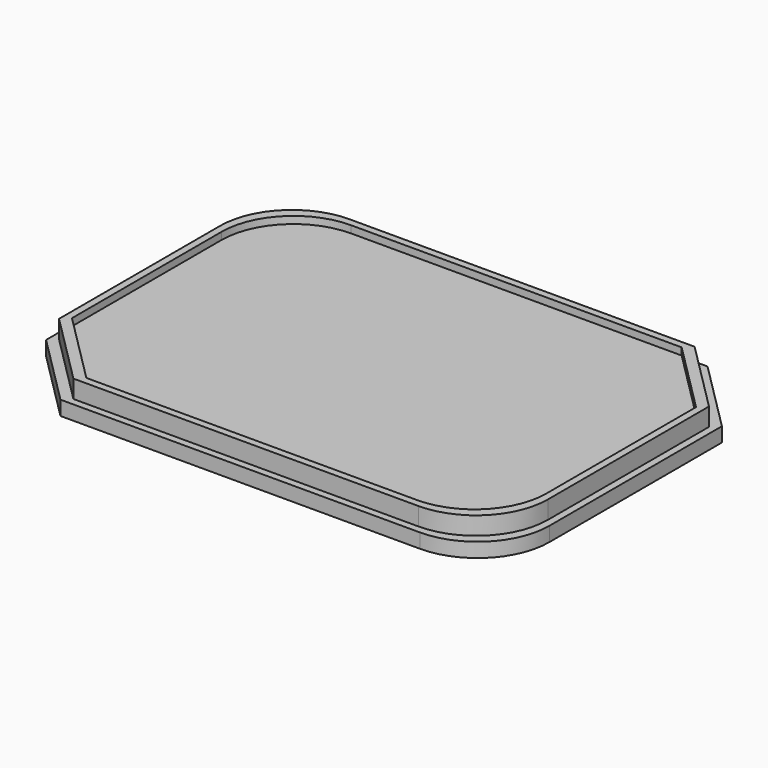
from build123d import *

# Parameters (mm, degrees)
F0_W     = 70
F0_H     = 50
F1_DEPTH = 2
F2_W     = 68
F2_H     = 48
F3_DEPTH = 2.5
F4_W     = 66
F4_H     = 46
F5_DEPTH = 1
F6_SIZE  = 10
F7_R     = 10


with BuildPart() as f1:
    # F0 (on Top) → F1 (new body)
    with BuildSketch(Plane.XY):
        Rectangle(F0_W, F0_H)
    extrude(amount=F1_DEPTH)

    # F2 (on face) → F3 (join)
    with BuildSketch(Plane.XY.offset(2)):
        Rectangle(F2_W, F2_H)
    extrude(amount=F3_DEPTH)

    # F4 (on face) → F5 (cut)
    with BuildSketch(Plane.XY.offset(4.5)):
        Rectangle(F4_W, F4_H)
    extrude(amount=-F5_DEPTH, mode=Mode.SUBTRACT)

    # F6
    f6_edges = [f1.edges().sort_by_distance(p)[0] for p in [
        (33, 23, 4),
        (34, 24, 3.25),
        (35, 25, 1),
        (-33, -23, 4),
        (-34, -24, 3.25),
        (-35, -25, 1),
    ]]
    chamfer(f6_edges, length=F6_SIZE)

    # F7
    f7_edges = [f1.edges().sort_by_distance(p)[0] for p in [
        (33, -23, 4),
        (34, -24, 3.25),
        (35, -25, 1),
        (-33, 23, 4),
        (-34, 24, 3.25),
        (-35, 25, 1),
    ]]
    fillet(f7_edges, radius=F7_R)


solid = f1.part
